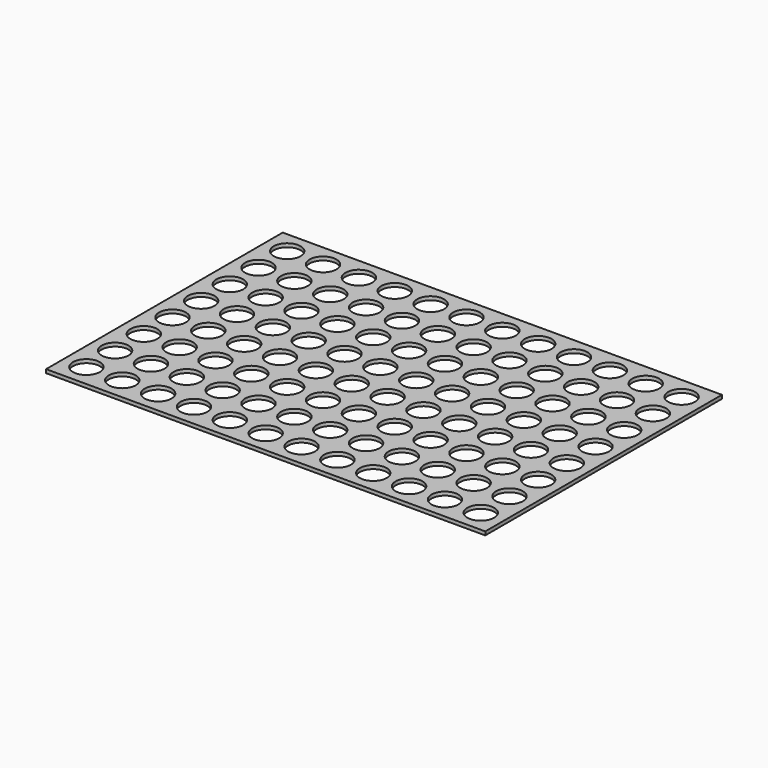
from build123d import *

# Parameters (mm, degrees)
F0_W     = 245
F0_H     = 165
F0_R     = 7.5
F1_DEPTH = 2


with BuildPart() as f1:
    # F0 (on Top) → F1 (new body)
    with BuildSketch(Plane.XY):
        Rectangle(F0_W, F0_H)
        with Locations((-110, -70)):
            Circle(F0_R, mode=Mode.SUBTRACT)
        with Locations((-90, -70)):
            Circle(F0_R, mode=Mode.SUBTRACT)
        with Locations((-70, -70)):
            Circle(F0_R, mode=Mode.SUBTRACT)
        with Locations((-110, -50)):
            Circle(F0_R, mode=Mode.SUBTRACT)
        with Locations((-90, -50)):
            Circle(F0_R, mode=Mode.SUBTRACT)
        with Locations((-70, -50)):
            Circle(F0_R, mode=Mode.SUBTRACT)
        with Locations((-50, -70)):
            Circle(F0_R, mode=Mode.SUBTRACT)
        with Locations((-30, -70)):
            Circle(F0_R, mode=Mode.SUBTRACT)
        with Locations((-10, -70)):
            Circle(F0_R, mode=Mode.SUBTRACT)
        with Locations((-50, -50)):
            Circle(F0_R, mode=Mode.SUBTRACT)
        with Locations((-30, -50)):
            Circle(F0_R, mode=Mode.SUBTRACT)
        with Locations((-10, -50)):
            Circle(F0_R, mode=Mode.SUBTRACT)
        with Locations((-110, -30)):
            Circle(F0_R, mode=Mode.SUBTRACT)
        with Locations((-90, -30)):
            Circle(F0_R, mode=Mode.SUBTRACT)
        with Locations((-70, -30)):
            Circle(F0_R, mode=Mode.SUBTRACT)
        with Locations((-110, -10)):
            Circle(F0_R, mode=Mode.SUBTRACT)
        with Locations((-90, -10)):
            Circle(F0_R, mode=Mode.SUBTRACT)
        with Locations((-70, -10)):
            Circle(F0_R, mode=Mode.SUBTRACT)
        with Locations((-50, -30)):
            Circle(F0_R, mode=Mode.SUBTRACT)
        with Locations((-30, -30)):
            Circle(F0_R, mode=Mode.SUBTRACT)
        with Locations((-10, -30)):
            Circle(F0_R, mode=Mode.SUBTRACT)
        with Locations((-50, -10)):
            Circle(F0_R, mode=Mode.SUBTRACT)
        with Locations((-30, -10)):
            Circle(F0_R, mode=Mode.SUBTRACT)
        with Locations((-10, -10)):
            Circle(F0_R, mode=Mode.SUBTRACT)
        with Locations((10, -70)):
            Circle(F0_R, mode=Mode.SUBTRACT)
        with Locations((30, -70)):
            Circle(F0_R, mode=Mode.SUBTRACT)
        with Locations((50, -70)):
            Circle(F0_R, mode=Mode.SUBTRACT)
        with Locations((10, -50)):
            Circle(F0_R, mode=Mode.SUBTRACT)
        with Locations((30, -50)):
            Circle(F0_R, mode=Mode.SUBTRACT)
        with Locations((50, -50)):
            Circle(F0_R, mode=Mode.SUBTRACT)
        with Locations((70, -70)):
            Circle(F0_R, mode=Mode.SUBTRACT)
        with Locations((90, -70)):
            Circle(F0_R, mode=Mode.SUBTRACT)
        with Locations((110, -70)):
            Circle(F0_R, mode=Mode.SUBTRACT)
        with Locations((70, -50)):
            Circle(F0_R, mode=Mode.SUBTRACT)
        with Locations((90, -50)):
            Circle(F0_R, mode=Mode.SUBTRACT)
        with Locations((110, -50)):
            Circle(F0_R, mode=Mode.SUBTRACT)
        with Locations((10, -30)):
            Circle(F0_R, mode=Mode.SUBTRACT)
        with Locations((30, -30)):
            Circle(F0_R, mode=Mode.SUBTRACT)
        with Locations((50, -30)):
            Circle(F0_R, mode=Mode.SUBTRACT)
        with Locations((10, -10)):
            Circle(F0_R, mode=Mode.SUBTRACT)
        with Locations((30, -10)):
            Circle(F0_R, mode=Mode.SUBTRACT)
        with Locations((50, -10)):
            Circle(F0_R, mode=Mode.SUBTRACT)
        with Locations((70, -30)):
            Circle(F0_R, mode=Mode.SUBTRACT)
        with Locations((90, -30)):
            Circle(F0_R, mode=Mode.SUBTRACT)
        with Locations((110, -30)):
            Circle(F0_R, mode=Mode.SUBTRACT)
        with Locations((70, -10)):
            Circle(F0_R, mode=Mode.SUBTRACT)
        with Locations((90, -10)):
            Circle(F0_R, mode=Mode.SUBTRACT)
        with Locations((110, -10)):
            Circle(F0_R, mode=Mode.SUBTRACT)
        with Locations((-110, 10)):
            Circle(F0_R, mode=Mode.SUBTRACT)
        with Locations((-90, 10)):
            Circle(F0_R, mode=Mode.SUBTRACT)
        with Locations((-70, 10)):
            Circle(F0_R, mode=Mode.SUBTRACT)
        with Locations((-110, 30)):
            Circle(F0_R, mode=Mode.SUBTRACT)
        with Locations((-90, 30)):
            Circle(F0_R, mode=Mode.SUBTRACT)
        with Locations((-70, 30)):
            Circle(F0_R, mode=Mode.SUBTRACT)
        with Locations((-50, 10)):
            Circle(F0_R, mode=Mode.SUBTRACT)
        with Locations((-30, 10)):
            Circle(F0_R, mode=Mode.SUBTRACT)
        with Locations((-10, 10)):
            Circle(F0_R, mode=Mode.SUBTRACT)
        with Locations((-50, 30)):
            Circle(F0_R, mode=Mode.SUBTRACT)
        with Locations((-30, 30)):
            Circle(F0_R, mode=Mode.SUBTRACT)
        with Locations((-10, 30)):
            Circle(F0_R, mode=Mode.SUBTRACT)
        with Locations((-110, 50)):
            Circle(F0_R, mode=Mode.SUBTRACT)
        with Locations((-90, 50)):
            Circle(F0_R, mode=Mode.SUBTRACT)
        with Locations((-70, 50)):
            Circle(F0_R, mode=Mode.SUBTRACT)
        with Locations((-110, 70)):
            Circle(F0_R, mode=Mode.SUBTRACT)
        with Locations((-90, 70)):
            Circle(F0_R, mode=Mode.SUBTRACT)
        with Locations((-70, 70)):
            Circle(F0_R, mode=Mode.SUBTRACT)
        with Locations((-50, 50)):
            Circle(F0_R, mode=Mode.SUBTRACT)
        with Locations((-30, 50)):
            Circle(F0_R, mode=Mode.SUBTRACT)
        with Locations((-10, 50)):
            Circle(F0_R, mode=Mode.SUBTRACT)
        with Locations((-50, 70)):
            Circle(F0_R, mode=Mode.SUBTRACT)
        with Locations((-30, 70)):
            Circle(F0_R, mode=Mode.SUBTRACT)
        with Locations((-10, 70)):
            Circle(F0_R, mode=Mode.SUBTRACT)
        with Locations((10, 10)):
            Circle(F0_R, mode=Mode.SUBTRACT)
        with Locations((30, 10)):
            Circle(F0_R, mode=Mode.SUBTRACT)
        with Locations((50, 10)):
            Circle(F0_R, mode=Mode.SUBTRACT)
        with Locations((10, 30)):
            Circle(F0_R, mode=Mode.SUBTRACT)
        with Locations((30, 30)):
            Circle(F0_R, mode=Mode.SUBTRACT)
        with Locations((50, 30)):
            Circle(F0_R, mode=Mode.SUBTRACT)
        with Locations((70, 10)):
            Circle(F0_R, mode=Mode.SUBTRACT)
        with Locations((90, 10)):
            Circle(F0_R, mode=Mode.SUBTRACT)
        with Locations((110, 10)):
            Circle(F0_R, mode=Mode.SUBTRACT)
        with Locations((70, 30)):
            Circle(F0_R, mode=Mode.SUBTRACT)
        with Locations((90, 30)):
            Circle(F0_R, mode=Mode.SUBTRACT)
        with Locations((110, 30)):
            Circle(F0_R, mode=Mode.SUBTRACT)
        with Locations((10, 50)):
            Circle(F0_R, mode=Mode.SUBTRACT)
        with Locations((30, 50)):
            Circle(F0_R, mode=Mode.SUBTRACT)
        with Locations((50, 50)):
            Circle(F0_R, mode=Mode.SUBTRACT)
        with Locations((10, 70)):
            Circle(F0_R, mode=Mode.SUBTRACT)
        with Locations((30, 70)):
            Circle(F0_R, mode=Mode.SUBTRACT)
        with Locations((50, 70)):
            Circle(F0_R, mode=Mode.SUBTRACT)
        with Locations((70, 50)):
            Circle(F0_R, mode=Mode.SUBTRACT)
        with Locations((90, 50)):
            Circle(F0_R, mode=Mode.SUBTRACT)
        with Locations((110, 50)):
            Circle(F0_R, mode=Mode.SUBTRACT)
        with Locations((70, 70)):
            Circle(F0_R, mode=Mode.SUBTRACT)
        with Locations((90, 70)):
            Circle(F0_R, mode=Mode.SUBTRACT)
        with Locations((110, 70)):
            Circle(F0_R, mode=Mode.SUBTRACT)
    extrude(amount=F1_DEPTH)


solid = f1.part
